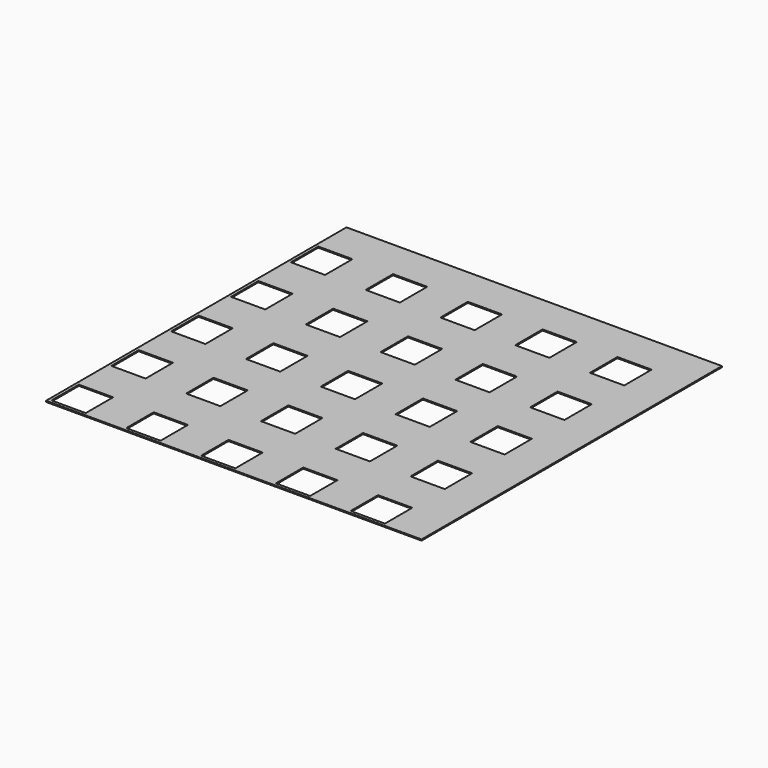
from build123d import *

# Parameters (mm, degrees)
F0_W     = 100
F0_H     = 100
F0_W_2   = 9.12
F0_H_2   = 9.12
F1_DEPTH = 0.3


with BuildPart() as f1:
    # F0 (on Top) → F1 (new body)
    with BuildSketch(Plane.XY):
        with Locations((50, 50)):
            Rectangle(F0_W, F0_H)
        with Locations((5.36, 5.36)):
            Rectangle(F0_W_2, F0_H_2, mode=Mode.SUBTRACT)
        with Locations((25.28, 5.36)):
            Rectangle(F0_W_2, F0_H_2, mode=Mode.SUBTRACT)
        with Locations((45.2, 5.36)):
            Rectangle(F0_W_2, F0_H_2, mode=Mode.SUBTRACT)
        with Locations((5.36, 25.28)):
            Rectangle(F0_W_2, F0_H_2, mode=Mode.SUBTRACT)
        with Locations((5.36, 45.2)):
            Rectangle(F0_W_2, F0_H_2, mode=Mode.SUBTRACT)
        with Locations((25.28, 25.28)):
            Rectangle(F0_W_2, F0_H_2, mode=Mode.SUBTRACT)
        with Locations((45.2, 25.28)):
            Rectangle(F0_W_2, F0_H_2, mode=Mode.SUBTRACT)
        with Locations((25.28, 45.2)):
            Rectangle(F0_W_2, F0_H_2, mode=Mode.SUBTRACT)
        with Locations((45.2, 45.2)):
            Rectangle(F0_W_2, F0_H_2, mode=Mode.SUBTRACT)
        with Locations((65.12, 5.36)):
            Rectangle(F0_W_2, F0_H_2, mode=Mode.SUBTRACT)
        with Locations((85.04, 5.36)):
            Rectangle(F0_W_2, F0_H_2, mode=Mode.SUBTRACT)
        with Locations((65.12, 25.28)):
            Rectangle(F0_W_2, F0_H_2, mode=Mode.SUBTRACT)
        with Locations((65.12, 45.2)):
            Rectangle(F0_W_2, F0_H_2, mode=Mode.SUBTRACT)
        with Locations((85.04, 25.28)):
            Rectangle(F0_W_2, F0_H_2, mode=Mode.SUBTRACT)
        with Locations((85.04, 45.2)):
            Rectangle(F0_W_2, F0_H_2, mode=Mode.SUBTRACT)
        with Locations((5.36, 65.12)):
            Rectangle(F0_W_2, F0_H_2, mode=Mode.SUBTRACT)
        with Locations((25.28, 65.12)):
            Rectangle(F0_W_2, F0_H_2, mode=Mode.SUBTRACT)
        with Locations((45.2, 65.12)):
            Rectangle(F0_W_2, F0_H_2, mode=Mode.SUBTRACT)
        with Locations((5.36, 85.04)):
            Rectangle(F0_W_2, F0_H_2, mode=Mode.SUBTRACT)
        with Locations((25.28, 85.04)):
            Rectangle(F0_W_2, F0_H_2, mode=Mode.SUBTRACT)
        with Locations((45.2, 85.04)):
            Rectangle(F0_W_2, F0_H_2, mode=Mode.SUBTRACT)
        with Locations((65.12, 65.12)):
            Rectangle(F0_W_2, F0_H_2, mode=Mode.SUBTRACT)
        with Locations((85.04, 65.12)):
            Rectangle(F0_W_2, F0_H_2, mode=Mode.SUBTRACT)
        with Locations((65.12, 85.04)):
            Rectangle(F0_W_2, F0_H_2, mode=Mode.SUBTRACT)
        with Locations((85.04, 85.04)):
            Rectangle(F0_W_2, F0_H_2, mode=Mode.SUBTRACT)
    extrude(amount=F1_DEPTH)


solid = f1.part
